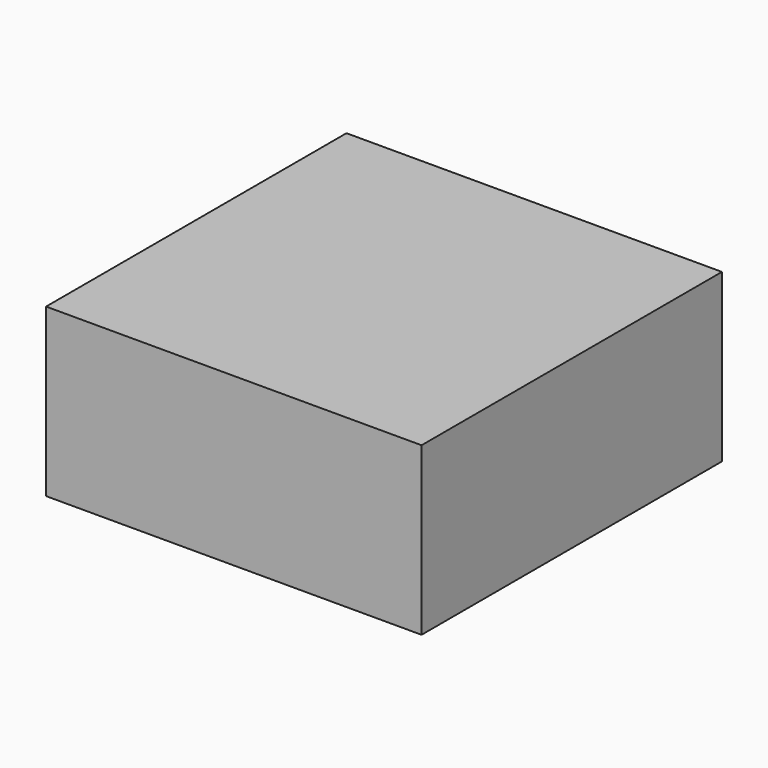
from build123d import *

# Parameters (mm, degrees)
F0_W     = 45
F0_H     = 45
F1_DEPTH = 20
F2_R     = 10
F4_DEPTH = 17
F3_R     = 18
F3_R_2   = 10
F5_DEPTH = 5


with BuildPart() as f1:
    # F0 (on Top) → F1 (new body)
    with BuildSketch(Plane.XY):
        Rectangle(F0_W, F0_H)
    extrude(amount=F1_DEPTH)

    # F2 (on face) → F4 (cut)
    with BuildSketch(Plane(origin=(0, 0, 0), x_dir=(1, 0, 0), z_dir=(0, 0, -1))):
        Circle(F2_R)
    extrude(amount=-F4_DEPTH, mode=Mode.SUBTRACT)

    # F3 (on face) → F5 (cut)
    with BuildSketch(Plane(origin=(0, 0, 0), x_dir=(1, 0, 0), z_dir=(0, 0, -1))):
        Circle(F3_R)
        Circle(F3_R_2, mode=Mode.SUBTRACT)
    extrude(amount=-F5_DEPTH, mode=Mode.SUBTRACT)


solid = f1.part
